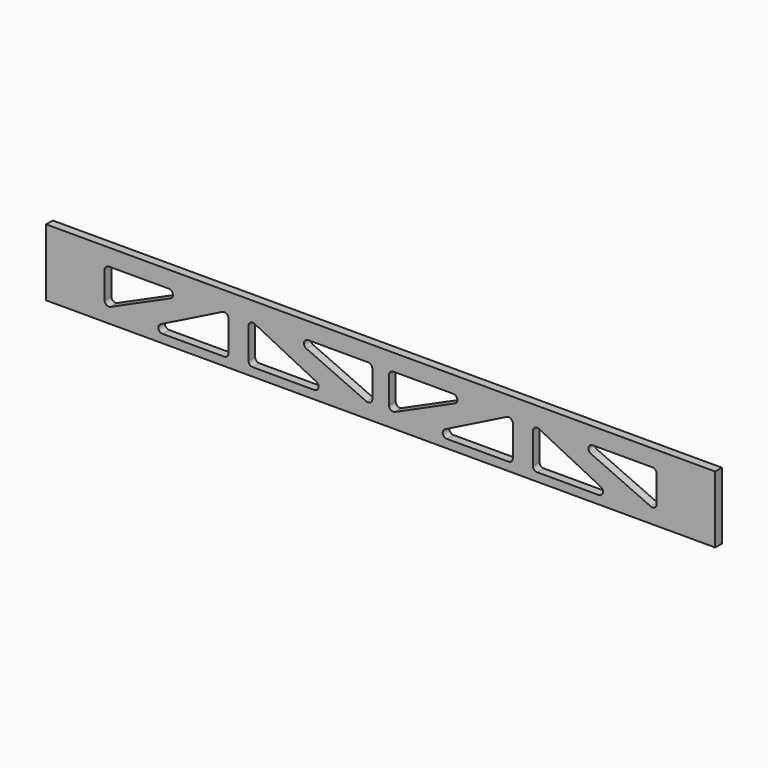
from build123d import *

# Parameters (mm, degrees)
F0_W     = 2032
F0_H     = 203.2
F1_DEPTH = 25.4


with BuildPart() as f1:
    # F0 (on Front) → F1 (new body)
    with BuildSketch(Plane.XZ):
        with Locations((-92.64186, 36.177602)):
            Rectangle(F0_W, F0_H)
        with BuildLine():
            ThreePointArc((-554.92186, -27.322398), (-558.641603, -36.302654), (-567.62186, -40.022398))
            Line((-567.62186, -40.022398), (-755.123796, -40.022398))
            ThreePointArc((-755.123796, -40.022398), (-767.484058, -30.24026), (-760.803409, -15.963173))
            Line((-760.803409, -15.963173), (-573.301472, 77.787796))
            ThreePointArc((-573.301472, 77.787796), (-560.945074, 77.231836), (-554.92186, 66.42857))
            Line((-554.92186, 66.42857), (-554.92186, -27.322398))
        make_face(mode=Mode.SUBTRACT)
        with BuildLine():
            Line((-930.830474, -8.218414), (-930.84186, -8.601821))
            Line((-930.84186, -8.601821), (-930.84186, 74.277602))
            ThreePointArc((-930.84186, 74.277602), (-927.122116, 83.257858), (-918.14186, 86.977602))
            Line((-918.14186, 86.977602), (-736.012165, 86.977602))
            ThreePointArc((-736.012165, 86.977602), (-723.594962, 76.942764), (-730.800533, 62.696199))
            Line((-730.800533, 62.696199), (-912.930228, -19.262164))
            ThreePointArc((-912.930228, -19.262164), (-924.810249, -18.48921), (-930.830474, -8.218414))
        make_face(mode=Mode.SUBTRACT)
        with BuildLine():
            Line((-493.96186, -27.322398), (-493.96186, 66.42857))
            ThreePointArc((-493.96186, 66.42857), (-487.938645, 77.231836), (-475.582247, 77.787796))
            Line((-475.582247, 77.787796), (-288.08031, -15.963173))
            ThreePointArc((-288.08031, -15.963173), (-281.399661, -30.24026), (-293.759923, -40.022398))
            Line((-293.759923, -40.022398), (-481.26186, -40.022398))
            ThreePointArc((-481.26186, -40.022398), (-490.242116, -36.302654), (-493.96186, -27.322398))
        make_face(mode=Mode.SUBTRACT)
        with BuildLine():
            Line((-118.04186, 74.277602), (-118.04186, -8.601821))
            Line((-118.04186, -8.601821), (-118.053245, -8.218414))
            ThreePointArc((-118.053245, -8.218414), (-124.07347, -18.48921), (-135.953491, -19.262164))
            Line((-135.953491, -19.262164), (-318.083186, 62.696199))
            ThreePointArc((-318.083186, 62.696199), (-325.288757, 76.942764), (-312.871555, 86.977602))
            Line((-312.871555, 86.977602), (-130.74186, 86.977602))
            ThreePointArc((-130.74186, 86.977602), (-121.761603, 83.257858), (-118.04186, 74.277602))
        make_face(mode=Mode.SUBTRACT)
        with BuildLine():
            Line((-67.24186, -8.601821), (-67.24186, 74.277602))
            ThreePointArc((-67.24186, 74.277602), (-63.522116, 83.257858), (-54.54186, 86.977602))
            Line((-54.54186, 86.977602), (127.587835, 86.977602))
            ThreePointArc((127.587835, 86.977602), (140.005038, 76.942764), (132.799467, 62.696199))
            Line((132.799467, 62.696199), (-49.330228, -19.262164))
            ThreePointArc((-49.330228, -19.262164), (-61.210249, -18.48921), (-67.230474, -8.218414))
            Line((-67.230474, -8.218414), (-67.24186, -8.601821))
        make_face(mode=Mode.SUBTRACT)
        with BuildLine():
            ThreePointArc((290.298528, 77.787796), (302.654926, 77.231836), (308.67814, 66.42857))
            Line((308.67814, 66.42857), (308.67814, -27.322398))
            ThreePointArc((308.67814, -27.322398), (304.958397, -36.302654), (295.97814, -40.022398))
            Line((295.97814, -40.022398), (108.476204, -40.022398))
            ThreePointArc((108.476204, -40.022398), (96.115942, -30.24026), (102.796591, -15.963173))
            Line((102.796591, -15.963173), (290.298528, 77.787796))
        make_face(mode=Mode.SUBTRACT)
        with BuildLine():
            Line((388.017753, 77.787796), (575.51969, -15.963173))
            ThreePointArc((575.51969, -15.963173), (582.200339, -30.24026), (569.840077, -40.022398))
            Line((569.840077, -40.022398), (382.33814, -40.022398))
            ThreePointArc((382.33814, -40.022398), (373.357884, -36.302654), (369.63814, -27.322398))
            Line((369.63814, -27.322398), (369.63814, 66.42857))
            ThreePointArc((369.63814, 66.42857), (375.661355, 77.231836), (388.017753, 77.787796))
        make_face(mode=Mode.SUBTRACT)
        with BuildLine():
            Line((550.728445, 86.977602), (732.85814, 86.977602))
            ThreePointArc((732.85814, 86.977602), (741.838397, 83.257858), (745.55814, 74.277602))
            Line((745.55814, 74.277602), (745.55814, -8.601821))
            Line((745.55814, -8.601821), (745.546755, -8.218414))
            ThreePointArc((745.546755, -8.218414), (739.52653, -18.48921), (727.646509, -19.262164))
            Line((727.646509, -19.262164), (545.516814, 62.696199))
            ThreePointArc((545.516814, 62.696199), (538.311243, 76.942764), (550.728445, 86.977602))
        make_face(mode=Mode.SUBTRACT)
    extrude(amount=F1_DEPTH)


solid = f1.part
